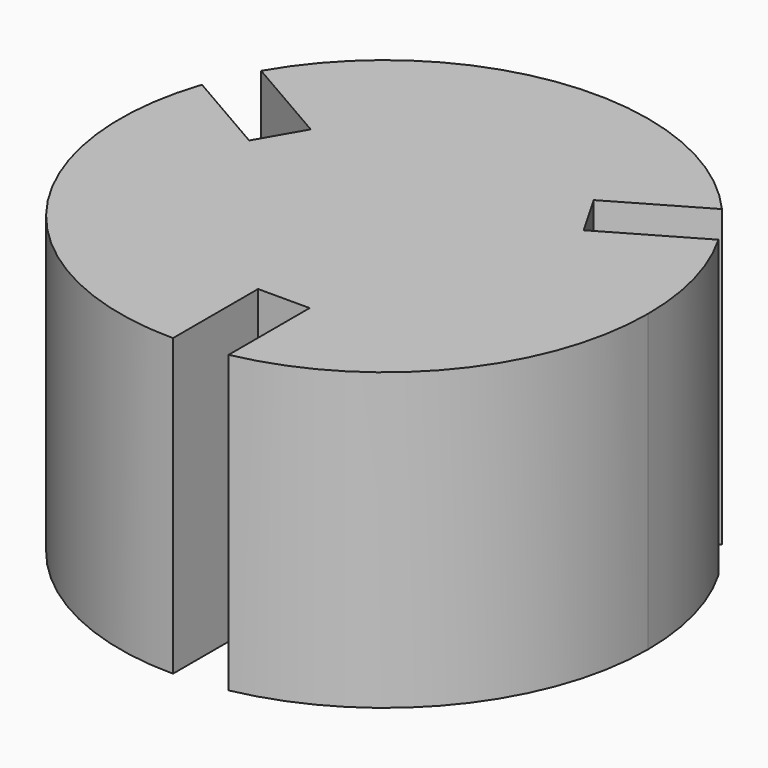
from build123d import *

# Parameters (mm, degrees)
F1_DEPTH = 25


with BuildPart() as f1:
    # F0 (on Top) → F1 (new body)
    with BuildSketch(Plane.XY):
        with BuildLine():
            ThreePointArc((4.365322, -21.90869), (17.27086, -14.169126), (22.339354, 0))
            ThreePointArc((22.339354, 0), (21.578159, 5.78185), (19.346448, 11.169677))
            Line((19.346448, 11.169677), (11.551495, 6.669259))
            Line((11.551495, 6.669259), (9.368834, 10.449739))
            Line((9.368834, 10.449739), (16.790821, 14.734825))
            ThreePointArc((16.790821, 14.734825), (-2.193257, 22.231427), (-19.346448, 11.169677))
            Line((-19.346448, 11.169677), (-11.551495, 6.669259))
            Line((-11.551495, 6.669259), (-13.734156, 2.888779))
            Line((-13.734156, 2.888779), (-21.156143, 7.173865))
            ThreePointArc((-21.156143, 7.173865), (-18.156352, -13.01513), (0, -22.339354))
            Line((0, -22.339354), (0, -13.338517))
            Line((0, -13.338517), (4.365322, -13.338517))
            Line((4.365322, -13.338517), (4.365322, -21.90869))
        make_face()
    extrude(amount=F1_DEPTH)


solid = f1.part
